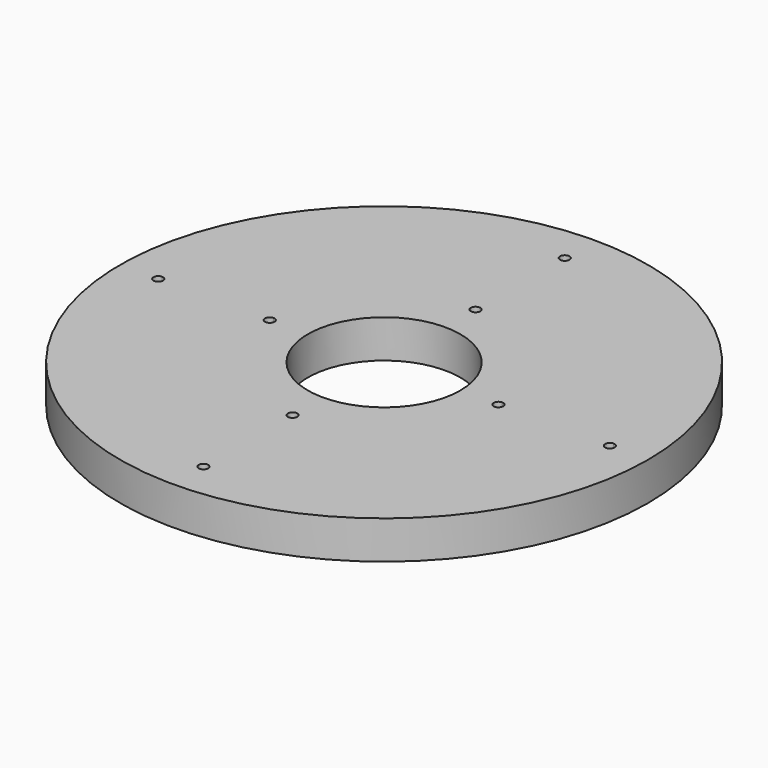
from build123d import *

# Parameters (mm, degrees)
F0_R     = 138.5
F1_DEPTH = 20
F2_R     = 40
F3_DEPTH = 25
F5_DEPTH = 25
F7_DEPTH = 20.001


with BuildPart() as f1:
    # F0 (on Top) → F1 (new body)
    with BuildSketch(Plane.XY):
        Circle(F0_R)
    extrude(amount=F1_DEPTH)

    # F2 (on face) → F3 (cut)
    with BuildSketch(Plane.XY.offset(20)):
        Circle(F2_R)
    extrude(amount=-F3_DEPTH, mode=Mode.SUBTRACT)

    # F4 (on face) → F5 (cut)
    with BuildSketch(Plane.XY.offset(20)):
        with BuildLine():
            ThreePointArc((-2.4994574064, 59.9479166667), (0, 60), (2.4994574064, 59.9479166667))
            ThreePointArc((2.4994574064, 59.9479166667), (2.4998643479, 59.9739569202), (2.5, 60))
            ThreePointArc((2.5, 60), (-0.0260430798, 62.4998643479), (-2.4994574064, 59.9479166667))
        make_face()
        with BuildLine():
            ThreePointArc((-2.4994574064, 59.9479166667), (0, 57.5), (2.4994574064, 59.9479166667))
            ThreePointArc((2.4994574064, 59.9479166667), (0, 60), (-2.4994574064, 59.9479166667))
        make_face()
        with BuildLine():
            ThreePointArc((-57.5, 0), (-58.2139137292, 1.7492557941), (-59.9479166667, 2.4994574064))
            ThreePointArc((-59.9479166667, 2.4994574064), (-60, 0), (-59.9479166667, -2.4994574064))
            ThreePointArc((-59.9479166667, -2.4994574064), (-58.2139137292, -1.7492557941), (-57.5, 0))
        make_face()
        with BuildLine():
            ThreePointArc((-59.9479166667, -2.4994574064), (-60, 0), (-59.9479166667, 2.4994574064))
            ThreePointArc((-59.9479166667, 2.4994574064), (-62.5, 0), (-59.9479166667, -2.4994574064))
        make_face()
        with BuildLine():
            ThreePointArc((59.9479166667, 2.4994574064), (59.9869777535, 1.25), (60, 0))
            ThreePointArc((60, 0), (59.9869777535, -1.25), (59.9479166667, -2.4994574064))
            ThreePointArc((59.9479166667, -2.4994574064), (61.7492557941, -1.7860862708), (62.5, 0))
            ThreePointArc((62.5, 0), (61.7492557941, 1.7860862708), (59.9479166667, 2.4994574064))
        make_face()
        with BuildLine():
            ThreePointArc((59.9479166667, -2.4994574064), (59.9869777535, -1.25), (60, 0))
            ThreePointArc((60, 0), (59.9869777535, 1.25), (59.9479166667, 2.4994574064))
            ThreePointArc((59.9479166667, 2.4994574064), (57.5, 0), (59.9479166667, -2.4994574064))
        make_face()
        with BuildLine():
            ThreePointArc((2.5, -60), (2.4998643479, -59.9739569202), (2.4994574064, -59.9479166667))
            ThreePointArc((2.4994574064, -59.9479166667), (0, -60), (-2.4994574064, -59.9479166667))
            ThreePointArc((-2.4994574064, -59.9479166667), (-0.0260430798, -62.4998643479), (2.5, -60))
        make_face()
        with BuildLine():
            ThreePointArc((-2.4994574064, -59.9479166667), (0, -60), (2.4994574064, -59.9479166667))
            ThreePointArc((2.4994574064, -59.9479166667), (0, -57.5), (-2.4994574064, -59.9479166667))
        make_face()
    extrude(amount=-F5_DEPTH, mode=Mode.SUBTRACT)

    # F6 (on face) → F7 (cut, through all)
    with BuildSketch(Plane.XY.offset(20)):
        with BuildLine():
            ThreePointArc((-2.499860907, 118.473628692), (0, 118.5), (2.499860907, 118.473628692))
            ThreePointArc((2.499860907, 118.473628692), (2.4999652265, 118.4868141626), (2.5, 118.5))
            ThreePointArc((2.5, 118.5), (-0.0131858374, 120.9999652265), (-2.499860907, 118.473628692))
        make_face()
        with BuildLine():
            ThreePointArc((-2.499860907, 118.473628692), (0, 116), (2.499860907, 118.473628692))
            ThreePointArc((2.499860907, 118.473628692), (0, 118.5), (-2.499860907, 118.473628692))
        make_face()
        with BuildLine():
            ThreePointArc((-116, 0), (-116.7229338406, 1.7584185693), (-118.473628692, 2.499860907))
            ThreePointArc((-118.473628692, 2.499860907), (-118.5, 0), (-118.473628692, -2.499860907))
            ThreePointArc((-118.473628692, -2.499860907), (-116.7229338406, -1.7584185693), (-116, 0))
        make_face()
        with BuildLine():
            ThreePointArc((-118.473628692, -2.499860907), (-118.5, 0), (-118.473628692, 2.499860907))
            ThreePointArc((-118.473628692, 2.499860907), (-121, 0), (-118.473628692, -2.499860907))
        make_face()
        with BuildLine():
            ThreePointArc((-2.499860907, -118.473628692), (0, -118.5), (2.499860907, -118.473628692))
            ThreePointArc((2.499860907, -118.473628692), (0, -116), (-2.499860907, -118.473628692))
        make_face()
        with BuildLine():
            ThreePointArc((2.5, -118.5), (2.4999652265, -118.4868141626), (2.499860907, -118.473628692))
            ThreePointArc((2.499860907, -118.473628692), (0, -118.5), (-2.499860907, -118.473628692))
            ThreePointArc((-2.499860907, -118.473628692), (-0.0131858374, -120.9999652265), (2.5, -118.5))
        make_face()
        with BuildLine():
            ThreePointArc((118.473628692, -2.499860907), (118.4934069896, -1.25), (118.5, 0))
            ThreePointArc((118.5, 0), (118.4934069896, 1.25), (118.473628692, 2.499860907))
            ThreePointArc((118.473628692, 2.499860907), (116, 0), (118.473628692, -2.499860907))
        make_face()
        with BuildLine():
            ThreePointArc((118.473628692, 2.499860907), (118.4934069896, 1.25), (118.5, 0))
            ThreePointArc((118.5, 0), (118.4934069896, -1.25), (118.473628692, -2.499860907))
            ThreePointArc((118.473628692, -2.499860907), (120.2584185693, -1.7770661594), (121, 0))
            ThreePointArc((121, 0), (120.2584185693, 1.7770661594), (118.473628692, 2.499860907))
        make_face()
    extrude(amount=-F7_DEPTH, mode=Mode.SUBTRACT)


solid = f1.part
